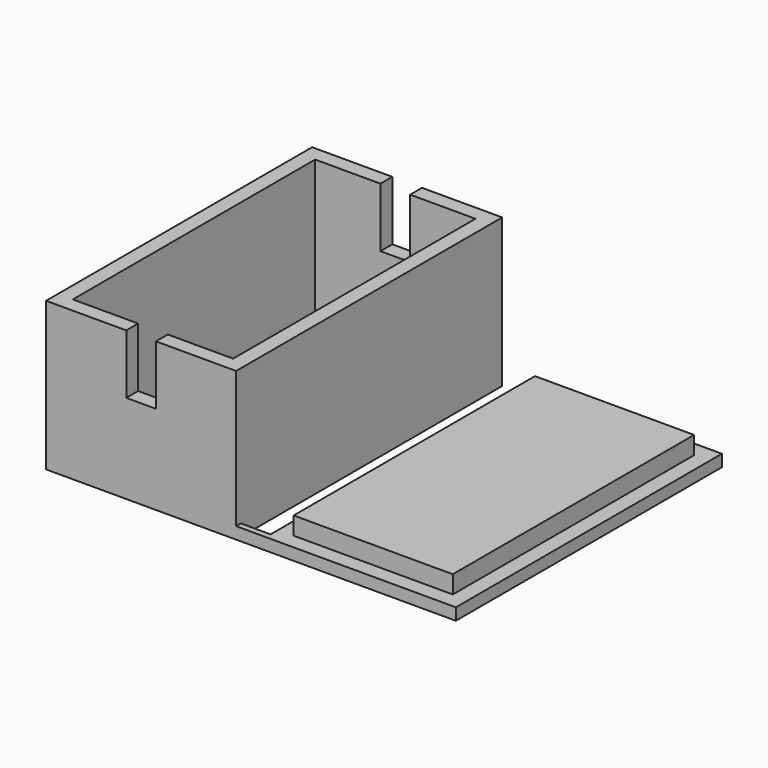
from build123d import *

# Parameters (mm, degrees)
F1_DEPTH = 2
F0_W     = 5
F0_H     = 1
F0_W_2   = 26.8
F0_H_2   = 50.8
F2_DEPTH = 5
F0_H_3   = 2.5
F3_DEPTH = 15
F4_DEPTH = 25


with BuildPart() as f1:
    # F0 (on Top) → F1 (new body)
    with BuildSketch(Plane.XY):
        Polygon((2.5, 2.5), (13.5, 2.5), (18.5, 2.5), (29.5, 2.5), (29.5, 53.5), (18.5, 53.5), (13.5, 53.5), (2.5, 53.5), align=None)
    extrude(amount=F1_DEPTH)

    # F0 (on Top) → F3 (join)
    with BuildSketch(Plane.XY):
        with Locations((16, 1.25)):
            Rectangle(F0_W, F0_H_3)
        with Locations((16, 54.75)):
            Rectangle(F0_W, F0_H_3)
    extrude(amount=F3_DEPTH)



with BuildPart() as f1b:
    # F0 (on Top) → F1, piece 2 (new body)
    with BuildSketch(Plane.XY):
        with Locations((34.5, 0.5)):
            Rectangle(F0_W, F0_H)
        Polygon((37, 1), (37, 0), (69, 0), (69, 56), (37, 56), align=None)
        with Locations((53, 28)):
            Rectangle(F0_W_2, F0_H_2, mode=Mode.SUBTRACT)
    extrude(amount=F1_DEPTH)

    # F0 (on Top) → F2 (join)
    with BuildSketch(Plane.XY):
        with Locations((53, 28)):
            Rectangle(F0_W_2, F0_H_2)
    extrude(amount=F2_DEPTH)


with BuildPart() as f1_1:
    add(f1.part)

    add(f1b.part)  # F4 merges F1b
    # F0 (on Top) → F4 (join)
    with BuildSketch(Plane.XY):
        Polygon((0, 56), (0, 0), (13.5, 0), (13.5, 2.5), (2.5, 2.5), (2.5, 53.5), (13.5, 53.5), (13.5, 56), align=None)
        Polygon((18.5, 2.5), (18.5, 0), (32, 0), (32, 1), (32, 56), (18.5, 56), (18.5, 53.5), (29.5, 53.5), (29.5, 2.5), align=None)
    extrude(amount=F4_DEPTH)


solid = f1_1.part
